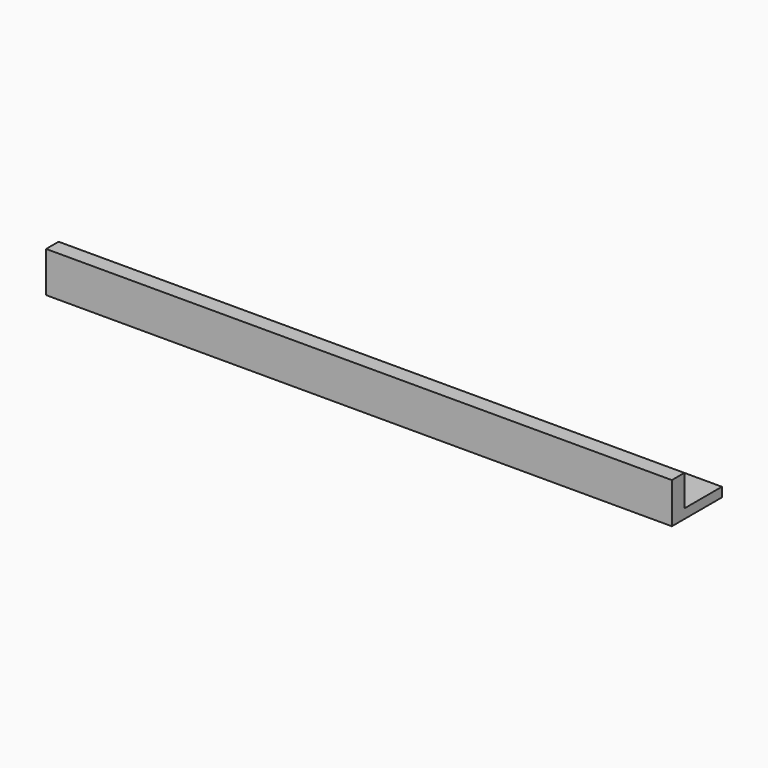
from build123d import *

# Parameters (mm, degrees)
SKETCH002_R      = 1.5
EXTRUDE002_DEPTH = 10
SKETCH_W         = 200
SKETCH_H         = 20
EXTRUDE_DEPTH    = 3
FACE001_W        = 5
FACE001_H        = 200
EXTRUDE001_DEPTH = 10


with BuildPart() as extrude002:
    # Sketch002 (on Face6 of Extrude) → Extrude002 (new body)
    with BuildSketch(Plane.XY.offset(3)):
        with Locations((50, 12.5)):
            Circle(SKETCH002_R)
        with Locations((150, 12.5)):
            Circle(SKETCH002_R)
    extrude(amount=-EXTRUDE002_DEPTH)


with BuildPart() as cut:
    # Sketch → Extrude (new body)
    with BuildSketch(Plane.XY):
        with Locations((100, 10)):
            Rectangle(SKETCH_W, SKETCH_H)
    extrude(amount=EXTRUDE_DEPTH)

    # Cut: cut Extrude002
    add(extrude002.part, mode=Mode.SUBTRACT)


with BuildPart() as fusion:
    # Face001 → Extrude001 (new body)
    with BuildSketch(Plane(origin=(100, 2.5, 3), x_dir=(0, 1, 0), z_dir=(0, 0, 1))):
        Rectangle(FACE001_W, FACE001_H)
    extrude(amount=EXTRUDE001_DEPTH)

    # Fusion: union Cut
    add(cut.part)


solid = fusion.part
